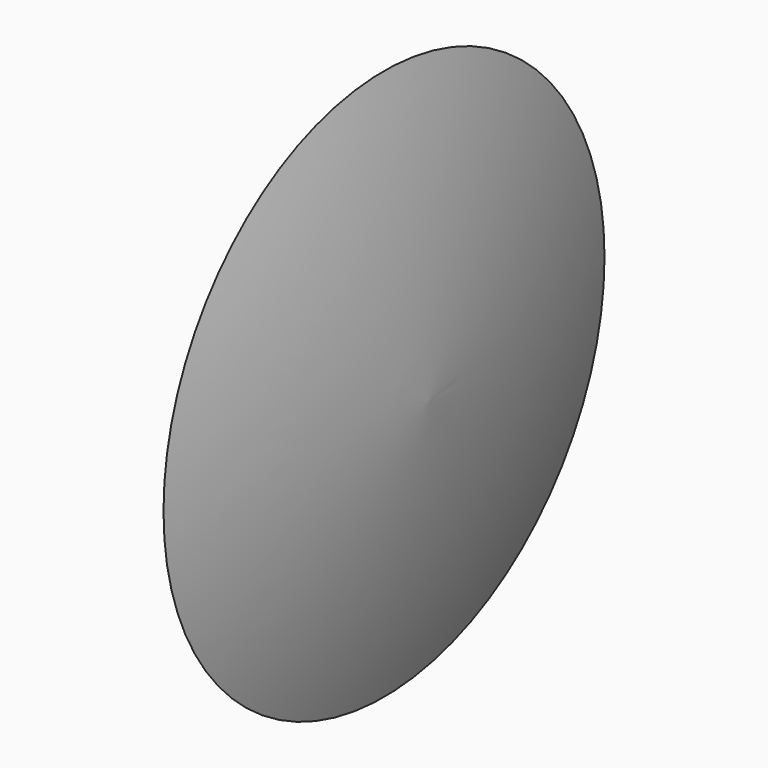
from build123d import *


with BuildPart() as f1:
    # F0 (on Top) → F1 (revolve)
    with BuildSketch(Plane.XY):
        with BuildLine():
            Line((32.004, 50.8), (32.004, 0))
            Line((32.004, 0), (40.3098, 0))
            ThreePointArc((40.3098, 0), (37.712393, 25.654323), (32.004, 50.8))
        make_face()
        with BuildLine():
            ThreePointArc((32.004, 50.8), (23.335957, 20.779607), (0, 0))
            Line((0, 0), (32.004, 0))
            Line((32.004, 0), (32.004, 50.8))
        make_face()
    revolve(axis=Axis((20.1549, 0, 0), (1, 0, 0)))


solid = f1.part
